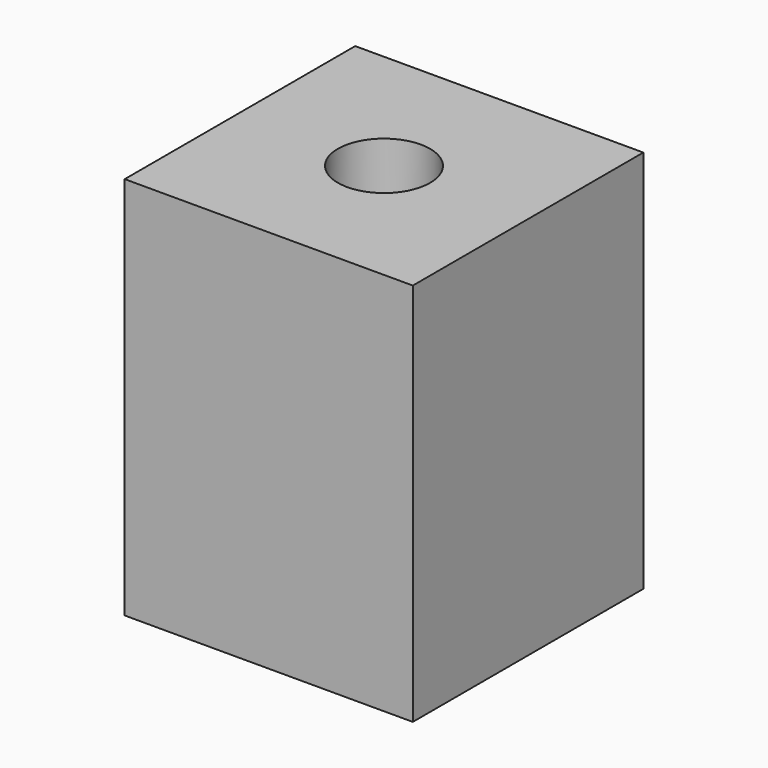
from build123d import *

# Parameters (mm, degrees)
CYLINDER111_R     = 1.2
CYLINDER111_DEPTH = 10
BOX065_W          = 4.5
BOX065_H          = 4.5
BOX065_DEPTH      = 10
BOX064_W          = 7.5
BOX064_H          = 7.5
BOX064_DEPTH      = 10


with BuildPart() as cylinder111:
    # Cylinder111 → Cylinder111 (new body)
    with BuildSketch(Plane(origin=(7.5, 16.5, 105), x_dir=(1, 0, 0), z_dir=(0, 0, 1))):
        Circle(CYLINDER111_R)
    extrude(amount=CYLINDER111_DEPTH)


with BuildPart() as cube063:
    # Box065 → Box065 (new body)
    with BuildSketch(Plane(origin=(5.25, 14.25, 98.5), x_dir=(1, 0, 0), z_dir=(0, 0, 1))):
        with Locations((2.25, 2.25)):
            Rectangle(BOX065_W, BOX065_H)
    extrude(amount=BOX065_DEPTH)


with BuildPart() as pcbmount:
    # Box064 → Box064 (new body)
    with BuildSketch(Plane(origin=(3.75, 12.75, 100), x_dir=(1, 0, 0), z_dir=(0, 0, 1))):
        with Locations((3.75, 3.75)):
            Rectangle(BOX064_W, BOX064_H)
    extrude(amount=BOX064_DEPTH)

    # Cut080: cut Cube063
    add(cube063.part, mode=Mode.SUBTRACT)

    # Cut081: cut Cylinder111
    add(cylinder111.part, mode=Mode.SUBTRACT)


with BuildPart() as pcbmount_1:
    # Cut081 placement: moved
    add(pcbmount.part.moved(Location((200, 20, -100))))


solid = pcbmount_1.part
